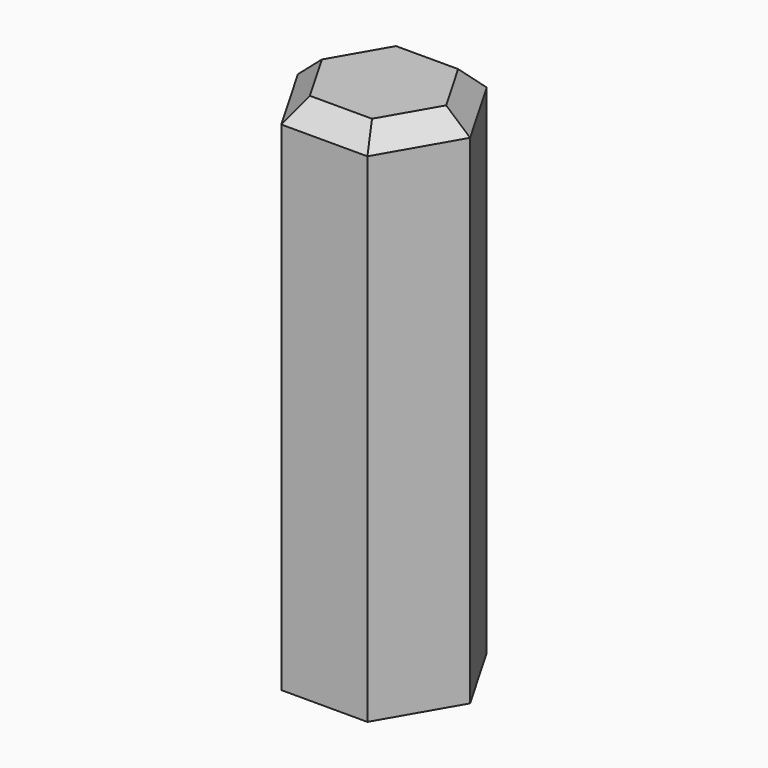
from build123d import *

# Parameters (mm, degrees)
F1_DEPTH = 25
F2_SIZE  = 1


with BuildPart() as f1:
    # F0 (on Top) → F1 (new body)
    with BuildSketch(Plane.XY):
        Polygon((-2.075, 3.594005), (-4.15, 0), (-2.075, -3.594005), (2.075, -3.594005), (4.15, 0), (2.075, 3.594005), align=None)
    extrude(amount=F1_DEPTH)

    # F2
    f2_edges = [f1.edges().sort_by_distance(p)[0] for p in [
        (0, 3.594005, 25),
        (-3.1125, 1.797003, 25),
        (-3.1125, -1.797003, 25),
        (0, -3.594005, 25),
        (3.1125, -1.797003, 25),
        (3.1125, 1.797003, 25),
    ]]
    chamfer(f2_edges, length=F2_SIZE)


solid = f1.part
